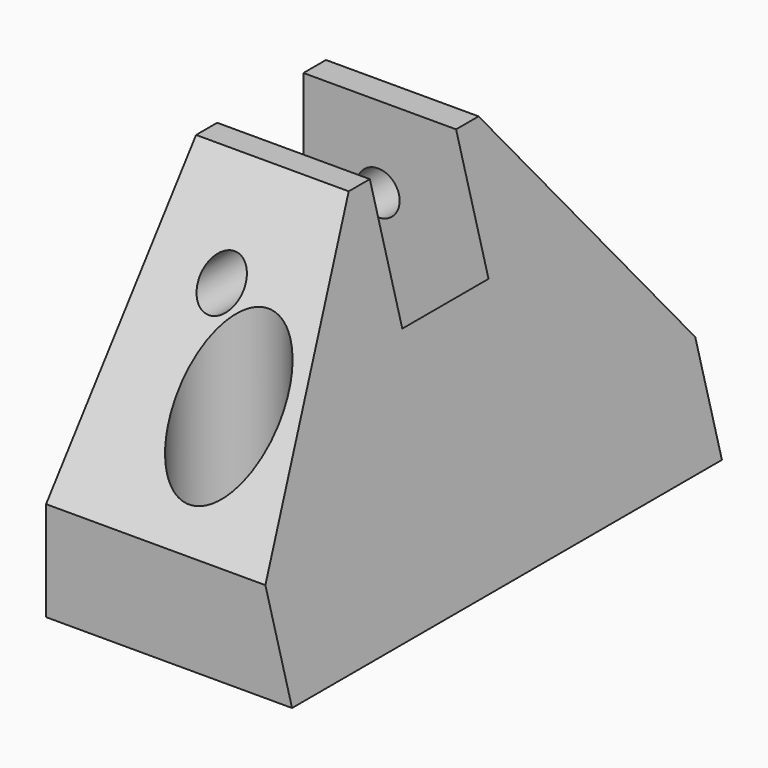
from build123d import *

# Parameters (mm, degrees)
BOX043_W               = 14
BOX043_H               = 73
BOX043_DEPTH           = 51
BOX043_PLACEMENT_ANGLE = 15
CYLINDER122_R          = 2.6
CYLINDER122_DEPTH      = 47
CYLINDER117_R          = 6
CYLINDER117_DEPTH      = 40
CYLINDER118_R          = 2.1
CYLINDER118_DEPTH      = 10
CYLINDER119_R          = 6
CYLINDER119_DEPTH      = 40
CYLINDER120_R          = 2.1
CYLINDER120_DEPTH      = 10
CYLINDER121_R          = 18
CYLINDER121_DEPTH      = 13
EXTRUDE035_DEPTH       = 30


with BuildPart() as box043:
    # Box043 → Box043 (new body)
    with BuildSketch(Plane.XY):
        with Locations((7, 36.5)):
            Rectangle(BOX043_W, BOX043_H)
    extrude(amount=BOX043_DEPTH)


with BuildPart() as box043_1:
    # Box043 placement: moved
    add(box043.part.moved(Location((336.936297, -53.3, -1.035276))).rotate(Axis((336.936297, -53.3, -1.035276), (0, -1, 0)), BOX043_PLACEMENT_ANGLE))


with BuildPart() as cylinder122:
    # Cylinder122 → Cylinder122 (new body)
    with BuildSketch(Plane(origin=(316, 5.5, 32.2), x_dir=(1, 0, 0), z_dir=(0, -1, 0))):
        Circle(CYLINDER122_R)
    extrude(amount=CYLINDER122_DEPTH)


with BuildPart() as cylinder117:
    # Cylinder117 → Cylinder117 (new body)
    with BuildSketch(Plane.XY.offset(10)):
        Circle(CYLINDER117_R)
    extrude(amount=CYLINDER117_DEPTH)


with BuildPart() as fusion056:
    # Cylinder118 → Cylinder118 (new body)
    with BuildSketch(Plane.XY):
        Circle(CYLINDER118_R)
    extrude(amount=CYLINDER118_DEPTH)

    # Fusion056: union Cylinder117
    add(cylinder117.part)


with BuildPart() as fusion056_1:
    # Fusion056 placement: moved
    add(fusion056.part.moved(Location((322, 5, -5))))


with BuildPart() as cylinder119:
    # Cylinder119 → Cylinder119 (new body)
    with BuildSketch(Plane.XY.offset(10)):
        Circle(CYLINDER119_R)
    extrude(amount=CYLINDER119_DEPTH)


with BuildPart() as fusion057:
    # Cylinder120 → Cylinder120 (new body)
    with BuildSketch(Plane.XY):
        Circle(CYLINDER120_R)
    extrude(amount=CYLINDER120_DEPTH)

    # Fusion057: union Cylinder119
    add(cylinder119.part)


with BuildPart() as fusion057_1:
    # Fusion057 placement: moved
    add(fusion057.part.moved(Location((322, -41, -5))))


with BuildPart() as cylinder121:
    # Cylinder121 → Cylinder121 (new body)
    with BuildSketch(Plane(origin=(313, -11, 35), x_dir=(1, 0, 0), z_dir=(0, -1, 0))):
        Circle(CYLINDER121_R)
    extrude(amount=CYLINDER121_DEPTH)


with BuildPart() as cut108:
    # Sketch028 → Extrude035 (new body)
    with BuildSketch(Plane.YZ):
        Polygon((15, 0), (-49.79, 0), (-49.79, 12), (-27.183378, 42), (-7.606622, 42), (15, 12), align=None)
    extrude(amount=-EXTRUDE035_DEPTH)


with BuildPart() as cut108_1:
    # Extrude035 placement: moved
    add(cut108.part.moved(Location((337, 0, 0))))

    # Cut104: cut Cylinder121
    add(cylinder121.part, mode=Mode.SUBTRACT)

    # Cut105: cut Fusion057
    add(fusion057_1.part, mode=Mode.SUBTRACT)

    # Cut106: cut Fusion056
    add(fusion056_1.part, mode=Mode.SUBTRACT)

    # Cut107: cut Cylinder122
    add(cylinder122.part, mode=Mode.SUBTRACT)

    # Cut108: cut Box043
    add(box043_1.part, mode=Mode.SUBTRACT)


with BuildPart() as cut108_2:
    # Cut108 placement: moved
    add(cut108_1.part.moved(Location((0, 41.7, 0))))


solid = cut108_2.part
